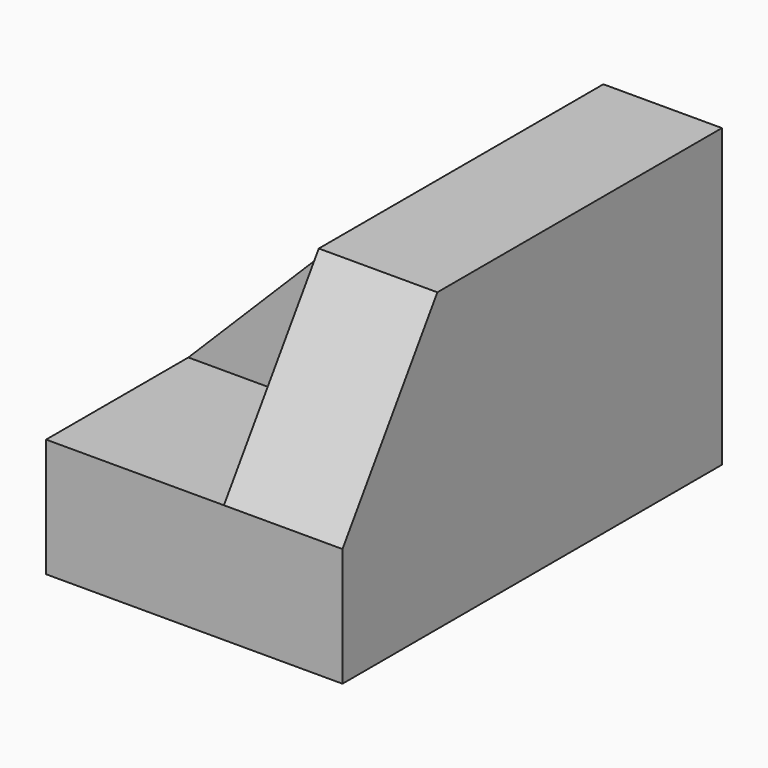
from build123d import *

# Parameters (mm, degrees)
F0_W     = 50.8
F0_H     = 31.75
F1_DEPTH = 31.75
F2_W     = 19.05
F2_H     = 19.05
F3_DEPTH = 19.05
F4_W     = 19.05
F4_H     = 19.05
F5_DEPTH = 19.05
F7_DEPTH = 25.4
F9_DEPTH = 25.4


with BuildPart() as f1:
    # F0 (on Right) → F1 (new body)
    with BuildSketch(Plane.YZ):
        with Locations((-25.4, 15.875)):
            Rectangle(F0_W, F0_H)
    extrude(amount=F1_DEPTH)

    # F2 (on face) → F3 (cut)
    with BuildSketch(Plane(origin=(0, 0, 0), x_dir=(-1, 0, 0), z_dir=(0, 1, 0))):
        with Locations((-9.525, 22.225)):
            Rectangle(F2_W, F2_H)
    extrude(amount=-F3_DEPTH, mode=Mode.SUBTRACT)

    # F4 (on face) → F5 (cut)
    with BuildSketch(Plane.XZ.offset(50.8)):
        with Locations((9.525, 22.225)):
            Rectangle(F4_W, F4_H)
    extrude(amount=-F5_DEPTH, mode=Mode.SUBTRACT)

    # F6 (on face) → F7 (cut)
    with BuildSketch(Plane(origin=(19.05, 0, 0), x_dir=(0, -1, 0), z_dir=(-1, 0, 0))):
        Polygon((50.8, 31.75), (38.1, 31.75), (50.8, 12.7), align=None)
    extrude(amount=-F7_DEPTH, mode=Mode.SUBTRACT)

    # F8 (on face) → F9 (cut)
    with BuildSketch(Plane.XZ.offset(31.75)):
        Polygon((0, 31.75), (0, 12.7), (19.05, 31.75), align=None)
    extrude(amount=-F9_DEPTH, mode=Mode.SUBTRACT)


solid = f1.part
